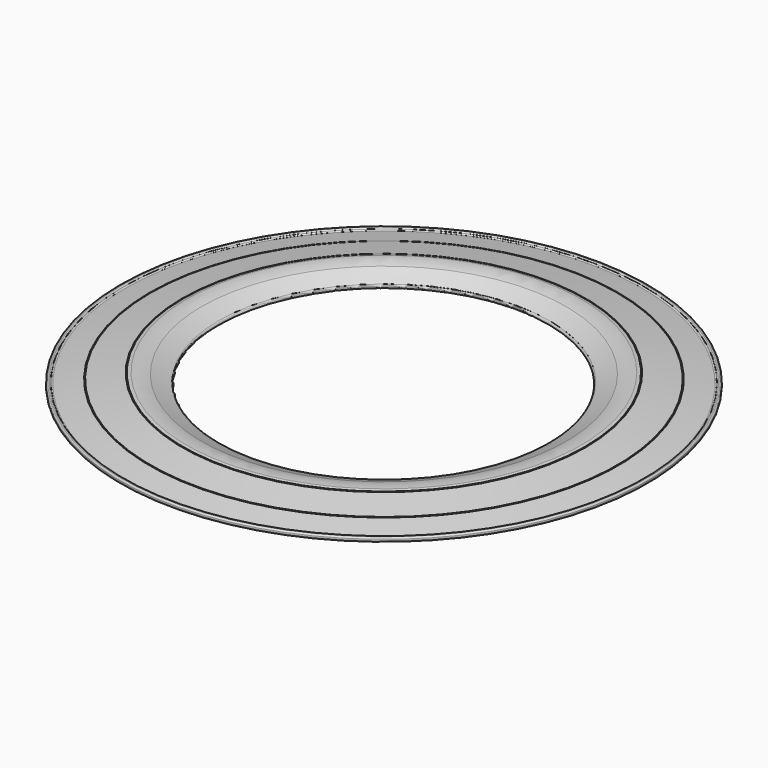
from build123d import *

# Parameters (mm, degrees)
F3_R = 10
F4_R = 0.5
F5_R = 0.5
F6_R = 0.75


with BuildPart() as f2:
    # F1 (on Front) → F2 (revolve)
    with BuildSketch(Plane.XZ):
        Polygon((-95, 0), (-56, 0), (-68.285019, 5), (-72.285019, 4.326221), (-72.285019, 0.75), (-84.285019, 0.75), (-84.285019, 2.304883), (-93.5, 0.752667), (-93.75, 1.5), (-95, 1.5), (-95, 0.5), align=None)
    revolve(axis=Axis((0, 0, 13.797939), (0, 0, -1)))

    # F3
    f3_edges = [f2.edges().sort_by_distance(p)[0] for p in [
        (68.285019, 0, 5),
    ]]
    fillet(f3_edges, radius=F3_R)

    # F4
    f4_edges = [f2.edges().sort_by_distance(p)[0] for p in [
        (93.75, 0, 1.5),
        (95, 0, 1.5),
        (95, 0, 0),
    ]]
    fillet(f4_edges, radius=F4_R)

    # F5
    f5_edges = [f2.edges().sort_by_distance(p)[0] for p in [
        (93.5, 0, 0.752667),
    ]]
    fillet(f5_edges, radius=F5_R)

    # F6
    f6_edges = [f2.edges().sort_by_distance(p)[0] for p in [
        (56, 0, 0),
    ]]
    fillet(f6_edges, radius=F6_R)


with BuildPart() as f7:
    # F1 (on Front) → F7 (revolve)
    with BuildSketch(Plane.XZ):
        Polygon((-83.985019, 0.9), (-72.585019, 0.9), (-72.585019, 4.275687), (-83.985019, 2.355416), align=None)
    revolve(axis=Axis((0, 0, 13.797939), (0, 0, -1)))


solid = Compound([f2.part, f7.part])
